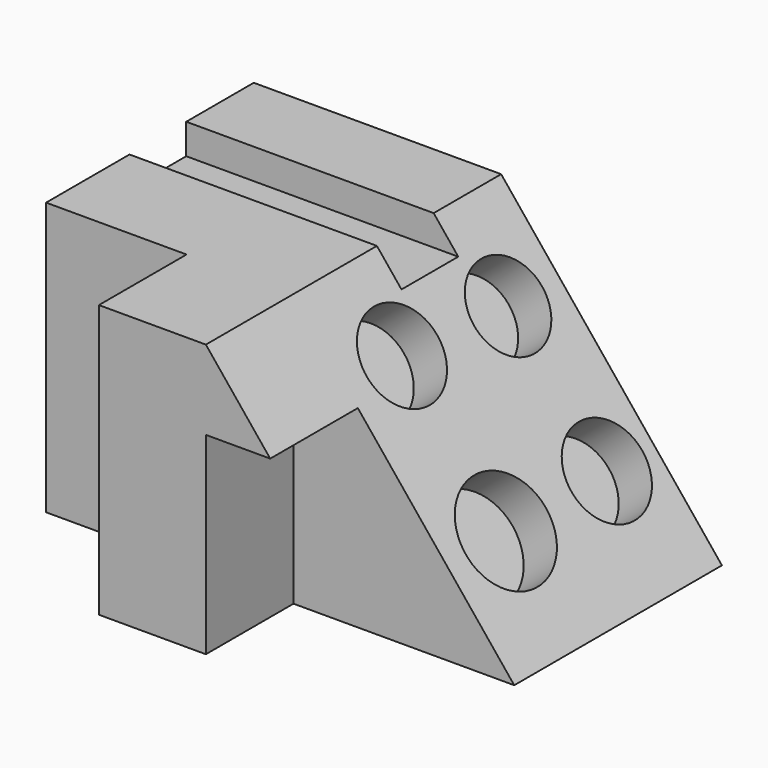
from build123d import *

# Parameters (mm, degrees)
F0_W     = 57.3766939342
F0_H     = 63.22119385
F1_DEPTH = 60.198
F2_R     = 10.2625762698
F2_R_2   = 9.860099692
F2_R_3   = 10.2778616748
F2_R_4   = 11.6361119367
F3_DEPTH = 9.906
F5_DEPTH = 25.4
F6_W     = 16.4541173726
F6_H     = 7.0413090289
F7_DEPTH = 208.28


with BuildPart() as f1:
    # F0 (on Front) → F1 (new body)
    with BuildSketch(Plane.XZ):
        with Locations((-28.6883469671, 31.610596925)):
            Rectangle(F0_W, F0_H)
        Polygon((0, 63.22119385), (0, 0), (51.1963777244, 0), align=None)
    extrude(amount=F1_DEPTH)

    # F2 (on face) → F3 (cut)
    with BuildSketch(Plane(origin=(30.9199380754, 0, 25.0388949105), x_dir=(0, 1, 0), z_dir=(0.7771407648, 0, 0.6293268083))):
        with Locations((-44.1004633904, 29.6253170818)):
            Circle(F2_R)
        with Locations((-14.7637147456, 27.8175938874)):
            Circle(F2_R_2)
        with Locations((-13.5386008769, -7.013282273)):
            Circle(F2_R_3)
        with Locations((-43.0233776569, -7.2796405293)):
            Circle(F2_R_4)
    extrude(amount=-F3_DEPTH, mode=Mode.SUBTRACT)

    # F4 (on face) → F5 (join)
    with BuildSketch(Plane.XZ.offset(60.198)):
        Polygon((0, 63.22119385), (-24.8047709465, 63.22119385), (-24.8047709465, 0), (0, 0), (0, 44.7936064249), align=None)
        Polygon((14.9226180164, 44.7936064249), (0, 63.22119385), (0, 44.7936064249), align=None)
    extrude(amount=F5_DEPTH)

    # F6 (on face) → F7 (cut)
    with BuildSketch(Plane(origin=(-57.3766939342, 0, 0), x_dir=(0, -1, 0), z_dir=(-1, 0, 0))):
        with Locations((27.7932761237, 59.7005393356)):
            Rectangle(F6_W, F6_H)
    extrude(amount=-F7_DEPTH, mode=Mode.SUBTRACT)


solid = f1.part
